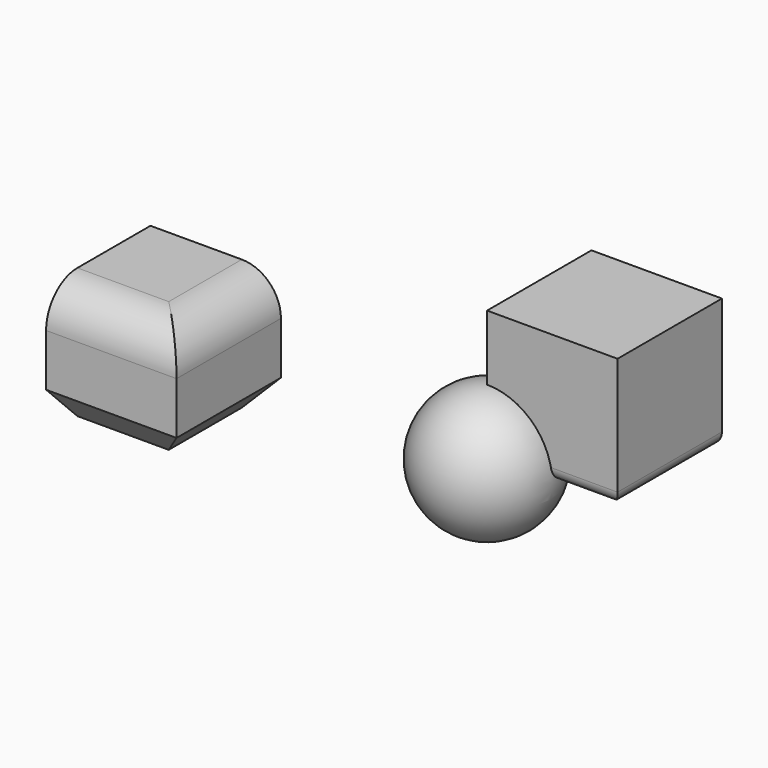
from build123d import *

# Parameters (mm, degrees)
BOX001_W     = 10
BOX001_H     = 10
BOX001_DEPTH = 10
FILLET_R     = 3
CHAMFER_SIZE = 3
BOX_W        = 10
BOX_H        = 10
BOX_DEPTH    = 10
FILLET001_R  = 1


with BuildPart() as sphere:
    # Sphere → Sphere (revolve)
    with BuildSketch(Plane(origin=(7, 7, -2), x_dir=(1, 0, 0), z_dir=(0, -1, 0))):
        with BuildLine():
            ThreePointArc((0, -5), (5, 0), (0, 5))
            Line((0, 5), (0, -5))
        make_face()
    revolve(axis=Axis((7, 7, -2), (0, 0, 1)))


with BuildPart() as chamfer_body:
    # Box001 → Box001 (new body)
    with BuildSketch(Plane(origin=(-18, -4, -4), x_dir=(1, 0, 0), z_dir=(0, 0, 1))):
        with Locations((5, 5)):
            Rectangle(BOX001_W, BOX001_H)
    extrude(amount=BOX001_DEPTH)

    # Fillet
    fillet_edges = [chamfer_body.edges().sort_by_distance(p)[0] for p in [
        (-8, 1, 6),
        (-13, -4, 6),
    ]]
    fillet(fillet_edges, radius=FILLET_R)

    # Chamfer
    chamfer_edges = [chamfer_body.edges().sort_by_distance(p)[0] for p in [
        (-13, -4, -4),
        (-8, 1, -4),
    ]]
    chamfer(chamfer_edges, length=CHAMFER_SIZE)


with BuildPart() as fillet001:
    # Box → Box (new body)
    with BuildSketch(Plane(origin=(7, 7, -2), x_dir=(1, 0, 0), z_dir=(0, 0, 1))):
        with Locations((5, 5)):
            Rectangle(BOX_W, BOX_H)
    extrude(amount=BOX_DEPTH)

    # Fillet001
    fillet001_edges = [fillet001.edges().sort_by_distance(p)[0] for p in [
        (17, 12, -2),
        (12, 7, -2),
    ]]
    fillet(fillet001_edges, radius=FILLET001_R)


solid = Compound([sphere.part, chamfer_body.part, fillet001.part])
